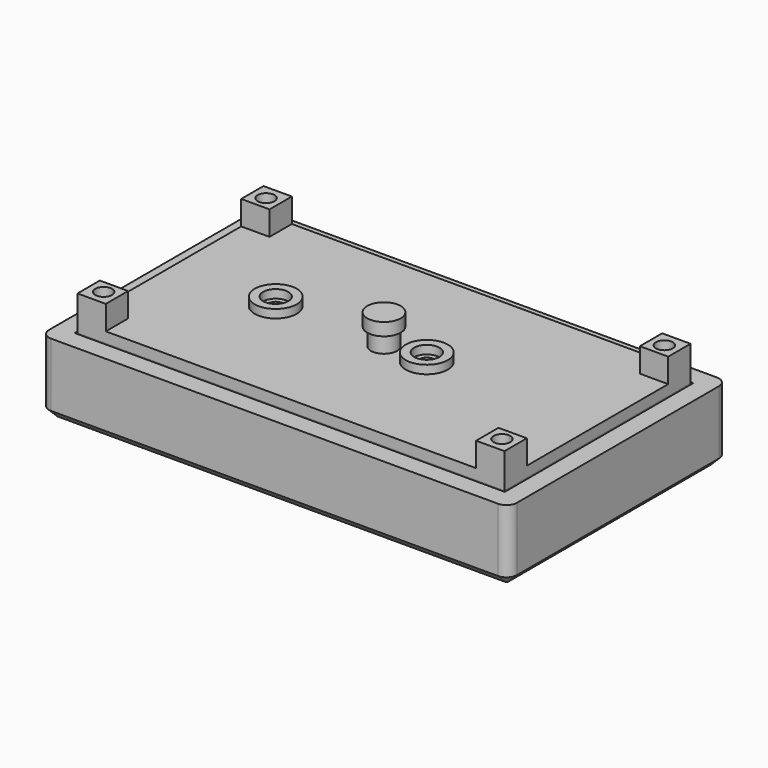
from build123d import *

# Parameters (mm, degrees)
PAD_DEPTH               = 17.12
BINDER_W                = 56
BINDER_H                = 102.2
POCKET_DEPTH            = 15
SKETCH001_W             = 8
SKETCH001_H             = 8
PAD001_DEPTH            = 4.2
SKETCH002_R             = 1.575
POCKET001_DEPTH         = 4.5
SKETCH003_W             = 10.5
SKETCH003_H             = 8
POCKET002_DEPTH         = 5
SKETCH004_W             = 75
SKETCH004_H             = 50
POCKET003_DEPTH         = 5
CHAMFER_SIZE            = 2
CHAMFER001_SIZE         = 1
CHAMFER002_SIZE         = 2
SKETCH028_W             = 3
SKETCH028_H             = 3
POCKET017_DEPTH         = 5
CHAMFER003_SIZE         = 0.5
BODY_PLACEMENT_ANGLE    = 180
SKETCH005_W             = 101.45
SKETCH005_H             = 55.25
PAD002_DEPTH            = 2.5
SKETCH006_W             = 6.725
SKETCH006_H             = 6.625
PAD003_DEPTH            = 6.25
SKETCH007_R             = 2
POCKET004_DEPTH         = 8.751
SKETCH008_R             = 5
SKETCH008_R_2           = 3
PAD004_DEPTH            = 2
SKETCH009_R             = 1.75
POCKET005_DEPTH         = 5
SKETCH010_R             = 3
POCKET006_DEPTH         = 2
BODY001_PLACEMENT_ANGLE = 180
SKETCH011_R             = 4.9
PAD005_DEPTH            = 4.4
SKETCH012_R             = 3.1
PAD006_DEPTH            = 6.6
SKETCH013_R             = 3.975
PAD007_DEPTH            = 3
SKETCH014_R             = 1.45
POCKET013_DEPTH         = 12
SKETCH027_R             = 1.75
POCKET016_DEPTH         = 5
BODY002_PLACEMENT_ANGLE = 180
SKETCH029_W             = 101.46
SKETCH029_H             = 55.26
PAD008_DEPTH            = 2.5
SKETCH030_W             = 6.73
SKETCH030_H             = 6.63
PAD009_DEPTH            = 5.75
SKETCH031_R             = 2
POCKET018_DEPTH         = 8.251
SKETCH032_R             = 5
SKETCH032_R_2           = 3
PAD010_DEPTH            = 2
SKETCH033_R             = 1.75
POCKET019_DEPTH         = 2.501
SKETCH034_R             = 3
POCKET020_DEPTH         = 2


with BuildPart() as top:
    # Sketch → Pad (new body)
    with BuildSketch(Plane.XY):
        with BuildLine():
            Line((-55.6, 30), (-55.6, -30))
            ThreePointArc((-55.6, -30), (-54.867767, -31.767767), (-53.1, -32.5))
            Line((-53.1, -32.5), (53.1, -32.5))
            ThreePointArc((53.1, -32.5), (54.867767, -31.767767), (55.6, -30))
            Line((55.6, -30), (55.6, 30))
            ThreePointArc((55.6, 30), (54.867767, 31.767767), (53.1, 32.5))
            Line((53.1, 32.5), (-53.1, 32.5))
            ThreePointArc((-53.1, 32.5), (-54.867767, 31.767767), (-55.6, 30))
        make_face()
    extrude(amount=PAD_DEPTH)

    # Binder → Pocket (cut)
    with BuildSketch(Plane(origin=(0, 0, 0), x_dir=(0, -1, 0), z_dir=(0, 0, -1))):
        Rectangle(BINDER_W, BINDER_H)
    extrude(amount=-POCKET_DEPTH, mode=Mode.SUBTRACT)

    # Sketch001 (on Face15 of Pocket) → Pad001 (join)
    with BuildSketch(Plane(origin=(0, 0, 15), x_dir=(1, 0, 0), z_dir=(0, 0, -1))):
        with Locations((-48, 25)):
            Rectangle(SKETCH001_W, SKETCH001_H)
        with Locations((-48, -25)):
            Rectangle(SKETCH001_W, SKETCH001_H)
        with Locations((48, 25)):
            Rectangle(SKETCH001_W, SKETCH001_H)
        with Locations((48, -25)):
            Rectangle(SKETCH001_W, SKETCH001_H)
    extrude(amount=PAD001_DEPTH)

    # Sketch002 (on DatumPlane) → Pocket001 (cut)
    with BuildSketch(Plane(origin=(0, 0, 10.8), x_dir=(1, 0, 0), z_dir=(0, 0, -1))):
        with Locations((-47.325, 24.125)):
            Circle(SKETCH002_R)
        with Locations((-47.325, -24.125)):
            Circle(SKETCH002_R)
        with Locations((47.325, -24.125)):
            Circle(SKETCH002_R)
        with Locations((47.325, 24.125)):
            Circle(SKETCH002_R)
    extrude(amount=-POCKET001_DEPTH, mode=Mode.SUBTRACT)

    # Sketch003 (on DatumPlane) → Pocket002 (cut)
    with BuildSketch(Plane.YZ.offset(55.6)):
        with Locations((-11.275, 7.06)):
            Rectangle(SKETCH003_W, SKETCH003_H)
    extrude(amount=-POCKET002_DEPTH, mode=Mode.SUBTRACT)

    # Sketch004 (on Face5 of Pocket002) → Pocket003 (cut)
    with BuildSketch(Plane.XY.offset(17.12)):
        with Locations((-2.33, 0)):
            Rectangle(SKETCH004_W, SKETCH004_H)
    extrude(amount=-POCKET003_DEPTH, mode=Mode.SUBTRACT)

    # Chamfer
    chamfer_edges = [top.edges().sort_by_distance(p)[0] for p in [
        (-39.83, 0, 17.12),
        (-2.33, 25, 17.12),
        (35.17, 0, 17.12),
        (-2.33, -25, 17.12),
    ]]
    chamfer(chamfer_edges, length=CHAMFER_SIZE)

    # Chamfer001
    chamfer001_edges = [top.edges().sort_by_distance(p)[0] for p in [
        (55.6, -16.525, 7.06),
        (55.6, -11.275, 3.06),
        (55.6, -6.025, 7.06),
        (55.6, -11.275, 11.06),
    ]]
    chamfer(chamfer001_edges, length=CHAMFER001_SIZE)

    # Chamfer002
    chamfer002_edges = [top.edges().sort_by_distance(p)[0] for p in [
        (0, 32.5, 17.12),
    ]]
    chamfer(chamfer002_edges, length=CHAMFER002_SIZE)

    # Sketch028 (on Face37 of Chamfer002) → Pocket017 (cut)
    with BuildSketch(Plane(origin=(0, 0, 15), x_dir=(1, 0, 0), z_dir=(0, 0, -1))):
        with Locations((-47.6, -15.5)):
            Rectangle(SKETCH028_W, SKETCH028_H)
    extrude(amount=-POCKET017_DEPTH, mode=Mode.SUBTRACT)

    # Chamfer003
    chamfer003_edges = [top.edges().sort_by_distance(p)[0] for p in [
        (-46.1, 15.5, 17.12),
        (-47.6, 17, 17.12),
        (-49.1, 15.5, 17.12),
        (-47.6, 14, 17.12),
    ]]
    chamfer(chamfer003_edges, length=CHAMFER003_SIZE)


with BuildPart() as top_1:
    # Body placement: moved
    add(top.part.rotate(Axis((0, 0, 0), (0, 1, 0)), BODY_PLACEMENT_ANGLE))


with BuildPart() as base:
    # Sketch005 → Pad002 (new body)
    with BuildSketch(Plane.XY):
        Rectangle(SKETCH005_W, SKETCH005_H)
    extrude(amount=PAD002_DEPTH)

    # Sketch006 (on Face5 of Pad002) → Pad003 (join)
    with BuildSketch(Plane(origin=(0, 0, 0), x_dir=(1, 0, 0), z_dir=(0, 0, -1))):
        with Locations((-47.3625, 24.3125)):
            Rectangle(SKETCH006_W, SKETCH006_H)
        with Locations((-47.3625, -24.3125)):
            Rectangle(SKETCH006_W, SKETCH006_H)
        with Locations((47.3625, -24.3125)):
            Rectangle(SKETCH006_W, SKETCH006_H)
        with Locations((47.3625, 24.3125)):
            Rectangle(SKETCH006_W, SKETCH006_H)
    extrude(amount=PAD003_DEPTH)

    # Sketch007 → Pocket004 (cut, through all)
    with BuildSketch(Plane(origin=(0, 0, -6.25), x_dir=(1, 0, 0), z_dir=(0, 0, -1))):
        with Locations((-47.325, 24.125)):
            Circle(SKETCH007_R)
        with Locations((47.325, 24.125)):
            Circle(SKETCH007_R)
        with Locations((47.325, -24.125)):
            Circle(SKETCH007_R)
        with Locations((-47.325, -24.125)):
            Circle(SKETCH007_R)
    extrude(amount=-POCKET004_DEPTH, mode=Mode.SUBTRACT)

    # Sketch008 (on Face5 of Pocket004) → Pad004 (join)
    with BuildSketch(Plane(origin=(0, 0, 0), x_dir=(1, 0, 0), z_dir=(0, 0, -1))):
        with Locations((-22.1, 17.95)):
            Circle(SKETCH008_R)
        with Locations((-22.1, 17.95)):
            Circle(SKETCH008_R_2, mode=Mode.SUBTRACT)
        with Locations((-22.1, -17.95)):
            Circle(SKETCH008_R)
        with Locations((-22.1, -17.95)):
            Circle(SKETCH008_R_2, mode=Mode.SUBTRACT)
    extrude(amount=PAD004_DEPTH)

    # Sketch009 (on Face38 of Pad004) → Pocket005 (cut)
    with BuildSketch(Plane(origin=(0, 0, 0), x_dir=(1, 0, 0), z_dir=(0, 0, -1))):
        with Locations((-22.1, 17.95)):
            Circle(SKETCH009_R)
        with Locations((-22.1, -17.95)):
            Circle(SKETCH009_R)
    extrude(amount=-POCKET005_DEPTH, mode=Mode.SUBTRACT)

    # Sketch010 (on Face7 of Pocket005) → Pocket006 (cut)
    with BuildSketch(Plane.XY.offset(2.5)):
        with Locations((-47.325, 24.125)):
            Circle(SKETCH010_R)
        with Locations((-47.325, -24.125)):
            Circle(SKETCH010_R)
        with Locations((47.325, -24.125)):
            Circle(SKETCH010_R)
        with Locations((47.325, 24.125)):
            Circle(SKETCH010_R)
    extrude(amount=-POCKET006_DEPTH, mode=Mode.SUBTRACT)


with BuildPart() as base_1:
    # Body001 placement: moved
    add(base.part.rotate(Axis((0, 0, 0), (1, 0, 0)), BODY001_PLACEMENT_ANGLE))


with BuildPart() as peg:
    # Sketch011 → Pad005 (new body)
    with BuildSketch(Plane.XY):
        Circle(SKETCH011_R)
    extrude(amount=PAD005_DEPTH)

    # Sketch012 (on Face2 of Pad005) → Pad006 (join)
    with BuildSketch(Plane(origin=(0, 0, 0), x_dir=(1, 0, 0), z_dir=(0, 0, -1))):
        Circle(SKETCH012_R)
    extrude(amount=PAD006_DEPTH)

    # Sketch013 (on Face5 of Pad006) → Pad007 (join)
    with BuildSketch(Plane(origin=(0, 0, -6.6), x_dir=(1, 0, 0), z_dir=(0, 0, -1))):
        Circle(SKETCH013_R)
    extrude(amount=PAD007_DEPTH)

    # Sketch014 (on Face7 of Pad007) → Pocket013 (cut)
    with BuildSketch(Plane.XY.offset(4.4)):
        Circle(SKETCH014_R)
    extrude(amount=-POCKET013_DEPTH, mode=Mode.SUBTRACT)

    # Sketch027 (on Face7 of Pocket013) → Pocket016 (cut)
    with BuildSketch(Plane.XY.offset(4.4)):
        Circle(SKETCH027_R)
    extrude(amount=-POCKET016_DEPTH, mode=Mode.SUBTRACT)


with BuildPart() as peg_1:
    # Body002 placement: moved
    add(peg.part.rotate(Axis((0, 0, 0), (1, 0, 0)), BODY002_PLACEMENT_ANGLE))


with BuildPart() as base_vertical:
    # Sketch029 → Pad008 (new body)
    with BuildSketch(Plane.XY):
        Rectangle(SKETCH029_W, SKETCH029_H)
    extrude(amount=PAD008_DEPTH)

    # Sketch030 (on Face6 of Pad008) → Pad009 (join)
    with BuildSketch(Plane.XY.offset(2.5)):
        with Locations((-47.365, -24.315)):
            Rectangle(SKETCH030_W, SKETCH030_H)
        with Locations((-47.365, 24.315)):
            Rectangle(SKETCH030_W, SKETCH030_H)
        with Locations((47.365, 24.315)):
            Rectangle(SKETCH030_W, SKETCH030_H)
        with Locations((47.365, -24.315)):
            Rectangle(SKETCH030_W, SKETCH030_H)
    extrude(amount=PAD009_DEPTH)

    # Sketch031 → Pocket018 (cut, through all)
    with BuildSketch(Plane.XY.offset(8.25)):
        with Locations((-47.325, 24.125)):
            Circle(SKETCH031_R)
        with Locations((-47.325, -24.125)):
            Circle(SKETCH031_R)
        with Locations((47.325, -24.125)):
            Circle(SKETCH031_R)
        with Locations((47.325, 24.125)):
            Circle(SKETCH031_R)
    extrude(amount=-POCKET018_DEPTH, mode=Mode.SUBTRACT)

    # Sketch032 (on Face6 of Pocket018) → Pad010 (join)
    with BuildSketch(Plane.XY.offset(2.5)):
        with Locations((-25.73, 0)):
            Circle(SKETCH032_R)
        with Locations((-25.73, 0)):
            Circle(SKETCH032_R_2, mode=Mode.SUBTRACT)
        with Locations((10.17, 0)):
            Circle(SKETCH032_R)
        with Locations((10.17, 0)):
            Circle(SKETCH032_R_2, mode=Mode.SUBTRACT)
    extrude(amount=PAD010_DEPTH)

    # Sketch033 (on Face38 of Pad010) → Pocket019 (cut, through all)
    with BuildSketch(Plane.XY.offset(2.5)):
        with Locations((-25.73, 0)):
            Circle(SKETCH033_R)
        with Locations((10.17, 0)):
            Circle(SKETCH033_R)
    extrude(amount=-POCKET019_DEPTH, mode=Mode.SUBTRACT)

    # Sketch034 (on Face4 of Pocket019) → Pocket020 (cut)
    with BuildSketch(Plane(origin=(0, 0, 0), x_dir=(1, 0, 0), z_dir=(0, 0, -1))):
        with Locations((-47.325, 24.125)):
            Circle(SKETCH034_R)
        with Locations((-47.325, -24.125)):
            Circle(SKETCH034_R)
        with Locations((47.325, -24.125)):
            Circle(SKETCH034_R)
        with Locations((47.325, 24.125)):
            Circle(SKETCH034_R)
    extrude(amount=-POCKET020_DEPTH, mode=Mode.SUBTRACT)


solid = Compound([top_1.part, base_1.part, peg_1.part, base_vertical.part])
